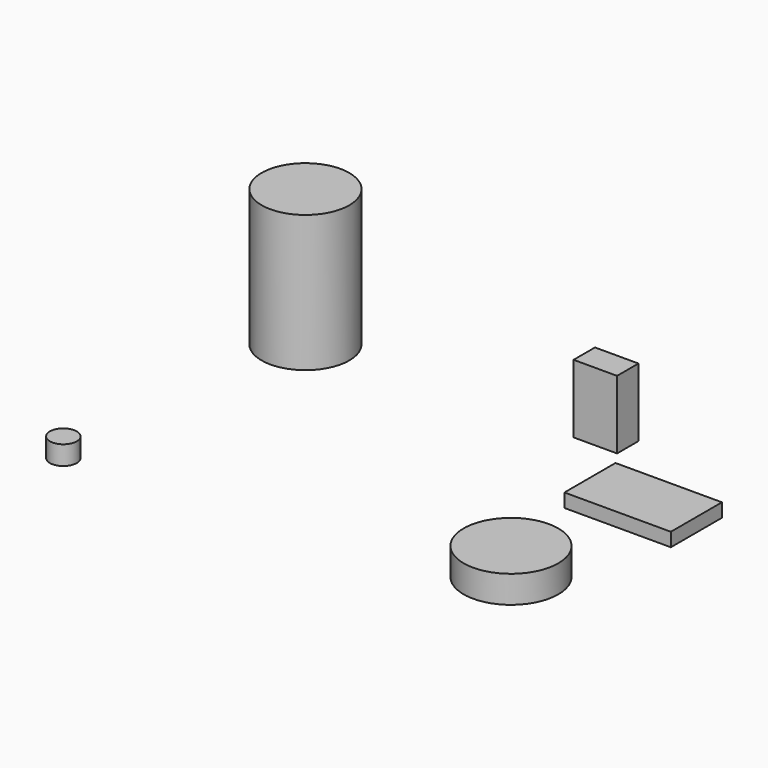
from build123d import *

# Parameters (mm, degrees)
F0_R     = 16.038367
F1_DEPTH = 50
F2_R     = 17.315995
F3_DEPTH = 10
F4_R     = 4.932735
F5_DEPTH = 7
F6_W     = 38.936675
F6_H     = 23.361994
F7_DEPTH = 5
F8_W     = 15.907585
F8_H     = 9.789292
F9_DEPTH = 25


with BuildPart() as f1:
    # F0 (on Top) → F1 (new body)
    with BuildSketch(Plane.XY):
        Circle(F0_R)
    extrude(amount=F1_DEPTH)


with BuildPart() as f3:
    # F2 (on Top) → F3 (new body)
    with BuildSketch(Plane.XY):
        with Locations((135.767445, -75.705171)):
            Circle(F2_R)
    extrude(amount=F3_DEPTH)


with BuildPart() as f5:
    # F4 (on Top) → F5 (new body)
    with BuildSketch(Plane.XY):
        with Locations((-10.028741, -98.201908)):
            Circle(F4_R)
    extrude(amount=F5_DEPTH)


with BuildPart() as f7:
    # F6 (on Top) → F7 (new body)
    with BuildSketch(Plane.XY):
        with Locations((140.526354, -21.193832)):
            Rectangle(F6_W, F6_H)
    extrude(amount=F7_DEPTH)


with BuildPart() as f9:
    # F8 (on Top) → F9 (new body)
    with BuildSketch(Plane.XY):
        with Locations((103.773818, 7.7526)):
            Rectangle(F8_W, F8_H)
    extrude(amount=F9_DEPTH)


solid = Compound([f1.part, f3.part, f5.part, f7.part, f9.part])
